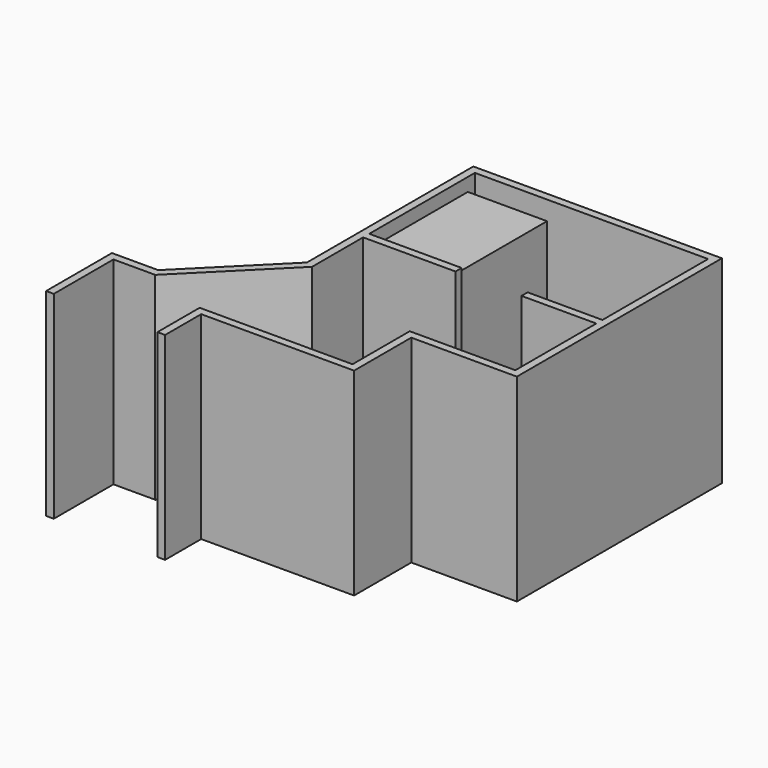
from build123d import *

# Parameters (mm, degrees)
F1_DEPTH = 2286
F4_W     = 863.6
F4_H     = 88.9
F4_W_2   = 1066.8
F5_DEPTH = 2286
F2_W     = 914.4
F2_H     = 1295.4
F6_DEPTH = 2133.6
F3_W     = 609.6
F3_H     = 812.8
F7_DEPTH = 838.2


with BuildPart() as f1:
    # F0 (on Top) → F1 (new body)
    with BuildSketch(Plane.XY):
        Polygon((-2692.4, 0), (0, 0), (0, -2781.3), (-1219.2, -2781.3), (-1219.2, -3606.8), (-2984.5, -3606.8), (-2984.5, -4216.4), (-2895.6, -4216.4), (-2895.6, -3695.7), (-1130.3, -3695.7), (-1130.3, -2870.2), (88.9, -2870.2), (88.9, 88.9), (-2781.3, 88.9), (-2781.3, -2312.676414305), (-3735.0122712547, -3266.3886855597), (-4269.6886855597, -3266.3886855597), (-4269.6886855597, -4216.4), (-4180.7886855597, -4216.4), (-4180.7886855597, -3355.2886855597), (-3698.1886855597, -3355.2886855597), (-2692.4, -2349.5), align=None)
    extrude(amount=F1_DEPTH)

    # F4 (on Top) → F5 (join)
    with BuildSketch(Plane.XY):
        with Locations((-431.8, -1568.45)):
            Rectangle(F4_W, F4_H)
        with Locations((-2159, -1568.45)):
            Rectangle(F4_W_2, F4_H)
    extrude(amount=F5_DEPTH)

    # F2 (on Top) → F6 (join)
    with BuildSketch(Plane.XY):
        with Locations((-2235.2, -749.3)):
            Rectangle(F2_W, F2_H)
    extrude(amount=F6_DEPTH)

    # F3 (on Top) → F7 (join)
    with BuildSketch(Plane.XY):
        with Locations((-304.8, -1117.6)):
            Rectangle(F3_W, F3_H)
        with BuildLine():
            add(Edge.make_bspline(
                [(-368.4777021408, -811.8355870247), (-650.3282199706, -811.8355870247), (-509.4029610557, -1196.3827311993), (-368.4777021408, -1580.9298753738), (-227.5524432259, -1196.3827311993), (-86.627184311, -811.8355870247), (-368.4777021408, -811.8355870247)],
                knots=[0, 0, 0, 2.0943951024, 2.0943951024, 4.1887902048, 4.1887902048, 6.2831853072, 6.2831853072, 6.2831853072], degree=2, weights=[1, 0.5, 1, 0.5, 1, 0.5, 1]))
        make_face(mode=Mode.SUBTRACT)
    extrude(amount=F7_DEPTH)


solid = f1.part
